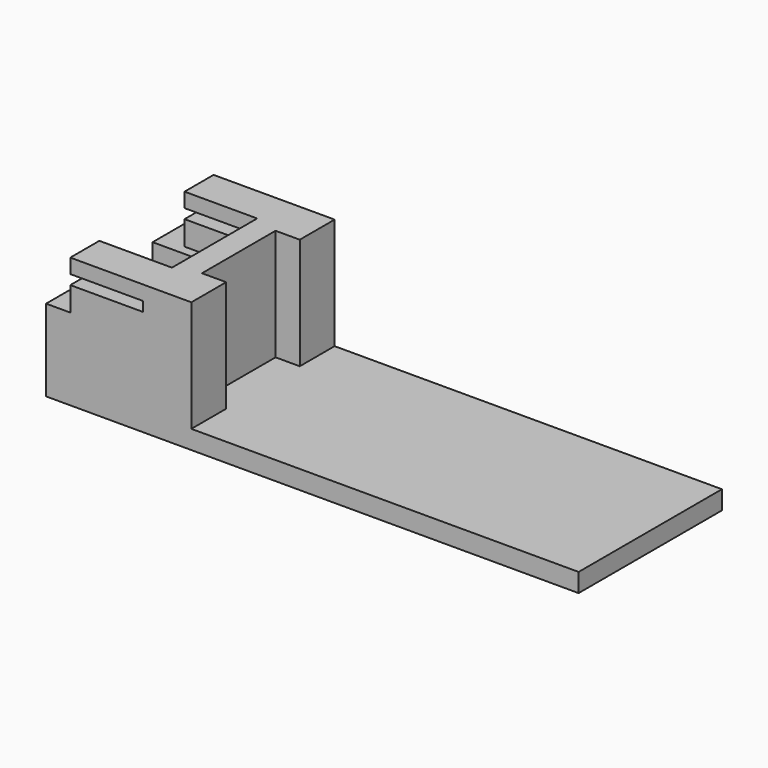
from build123d import *

# Parameters (mm, degrees)
F1_DEPTH  = 37
F2_W      = 19
F2_H      = 23.015723977
F3_DEPTH  = 5
F4_W      = 18
F4_H      = 26.8701749424
F5_DEPTH  = 20
F6_W      = 37
F6_H      = 2
F7_DEPTH  = 20
F8_W      = 37
F8_H      = 10
F9_DEPTH  = 5
F10_W     = 20
F10_H     = 22
F11_DEPTH = 10


with BuildPart() as f1:
    # F0 (on Front) → F1 (new body)
    with BuildSketch(Plane.XZ):
        Polygon((15.5247052472, -27.7605104941), (-14.4752947528, -27.7605104941), (-14.4752947528, -54.6306854365), (15.5247052472, -54.6306854365), (95.5247052472, -54.6306854365), (95.5247052472, -50.776234471), (15.5247052472, -50.776234471), align=None)
    extrude(amount=F1_DEPTH)

    # F2 (on face) → F3 (cut)
    with BuildSketch(Plane.YZ.offset(15.5247052472)):
        with Locations((-18.5, -39.2683724826)):
            Rectangle(F2_W, F2_H)
    extrude(amount=-F3_DEPTH, mode=Mode.SUBTRACT)

    # F4 (on face) → F5 (cut)
    with BuildSketch(Plane(origin=(-14.4752947528, 0, 0), x_dir=(0, -1, 0), z_dir=(-1, 0, 0))):
        with Locations((18.5, -41.1955979653)):
            Rectangle(F4_W, F4_H)
    extrude(amount=-F5_DEPTH, mode=Mode.SUBTRACT)

    # F6 (on face) → F7 (cut, through all)
    with BuildSketch(Plane(origin=(-14.4752947528, 0, 0), x_dir=(0, -1, 0), z_dir=(-1, 0, 0))):
        with Locations((18.5, -31.7605104941)):
            Rectangle(F6_W, F6_H)
    extrude(amount=-F7_DEPTH, mode=Mode.SUBTRACT)

    # F8 (on face) → F9 (cut)
    with BuildSketch(Plane(origin=(-14.4752947528, 0, 0), x_dir=(0, -1, 0), z_dir=(-1, 0, 0))):
        with Locations((18.5, -32.7605104941)):
            Rectangle(F8_W, F8_H)
    extrude(amount=-F9_DEPTH, mode=Mode.SUBTRACT)

    # F10 (on face) → F11 (cut, through all)
    with BuildSketch(Plane.XY.offset(-27.7605104941)):
        with Locations((-4.4752947528, -18.5)):
            Rectangle(F10_W, F10_H)
    extrude(amount=-F11_DEPTH, mode=Mode.SUBTRACT)


solid = f1.part
